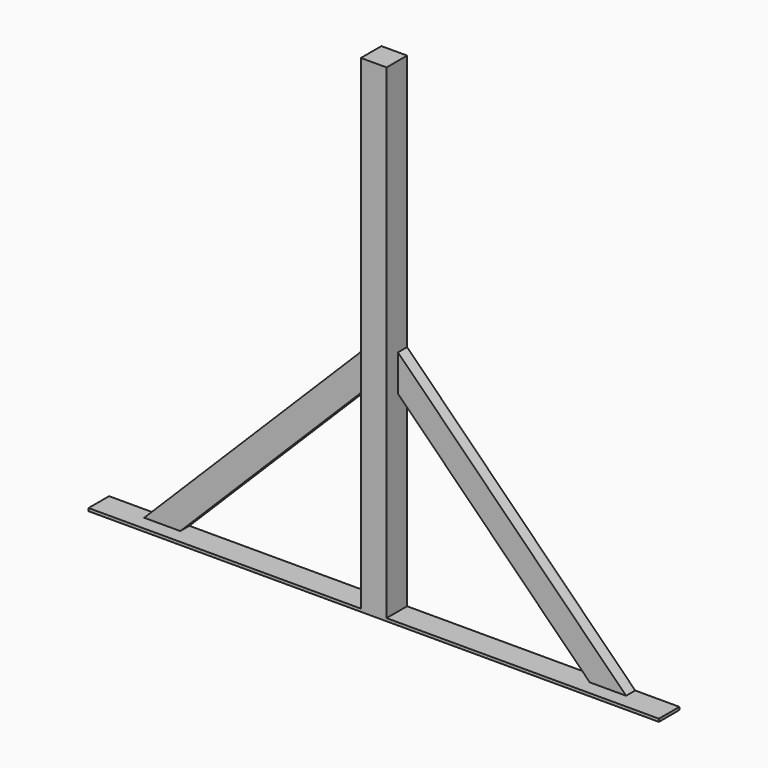
from build123d import *

# Parameters (mm, degrees)
F1_DEPTH = 45
F2_DEPTH = 20


with BuildPart() as f1:
    # F0 (on Front) → F1 (new body)
    with BuildSketch(Plane.XZ):
        Polygon((22.5, 338.86039), (22.5, 402.5), (22.5, 852.5), (-22.5, 852.5), (-22.5, 402.133873), (-22.5, 338.86039), (-22.5, 2.5), (22.5, 2.5), align=None)
        Polygon((500, -2.5), (500, 2.5), (422.5, 2.5), (358.86039, 2.5), (22.5, 2.5), (-22.5, 2.5), (-359.168549, 2.5), (-422.5, 2.5), (-500, 2.5), (-500, -2.5), align=None)
    extrude(amount=F1_DEPTH)

    # F0 (on Front) → F2 (join)
    with BuildSketch(Plane.XZ):
        Polygon((500, -2.5), (500, 2.5), (422.5, 2.5), (358.86039, 2.5), (22.5, 2.5), (-22.5, 2.5), (-359.168549, 2.5), (-422.5, 2.5), (-500, 2.5), (-500, -2.5), align=None)
        Polygon((358.86039, 2.5), (422.5, 2.5), (22.5, 402.5), (22.5, 338.86039), align=None)
        Polygon((22.5, 338.86039), (22.5, 402.5), (22.5, 852.5), (-22.5, 852.5), (-22.5, 402.133873), (-22.5, 338.86039), (-22.5, 2.5), (22.5, 2.5), align=None)
        Polygon((-22.5, 402.133873), (-422.5, 2.5), (-359.168549, 2.5), (-22.5, 338.86039), align=None)
    extrude(amount=F2_DEPTH)


solid = f1.part
